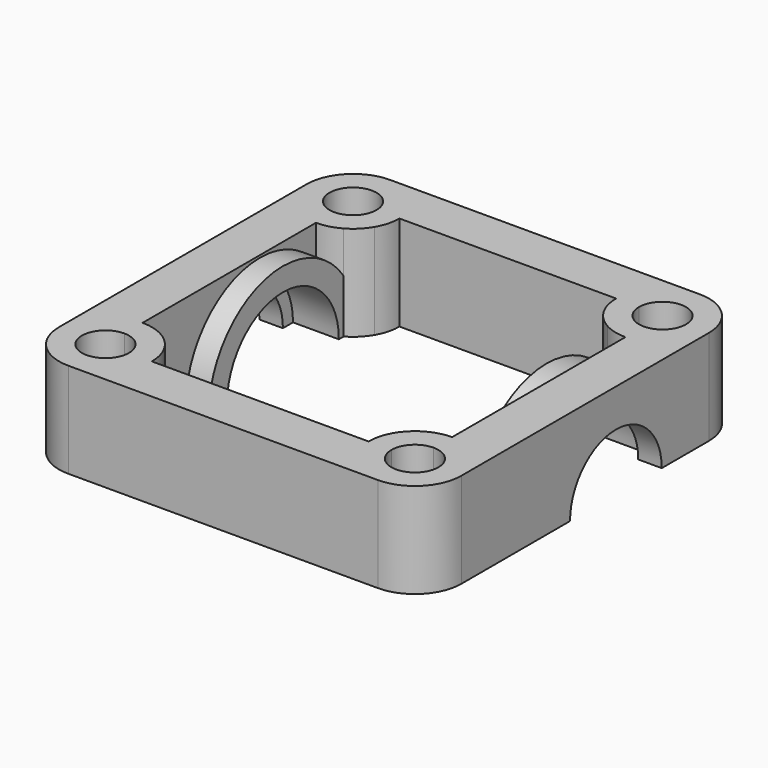
from build123d import *

# Parameters (mm, degrees)
F0_W     = 2
F0_H     = 6.1
F0_H_2   = 2
F0_W_2   = 2.05
F0_H_3   = 5
F1_DEPTH = 8.3
F2_ANGLE = 180
F3_ANGLE = 180


with BuildPart() as f1:
    # F0 (on Top) → F1 (new body)
    with BuildSketch(Plane.XY):
        with BuildLine():
            ThreePointArc((-13.5, 9.45), (-14.5342970466, 9.5842970466), (-15.5, 9.9782816694))
            Line((-15.5, 9.9782816694), (-15.5, 9.45))
            Line((-15.5, 9.45), (-13.5, 9.45))
        make_face()
        with BuildLine():
            ThreePointArc((-9.45, 13.5), (-10.6362175362, 16.3637824638), (-13.5, 17.55))
            ThreePointArc((-13.5, 17.55), (-16.3637824638, 16.3637824638), (-17.55, 13.5))
            ThreePointArc((-17.55, 13.5), (-17.0001785669, 11.4625383439), (-15.5, 9.9782816694))
            Line((-15.5, 9.9782816694), (-15.5, 11.45))
            Line((-15.5, 11.45), (-13.5, 11.45))
            ThreePointArc((-13.5, 11.45), (-14.9495689014, 14.9495689014), (-11.45, 13.5))
            Line((-11.45, 13.5), (-9.45, 13.5))
        make_face()
        with BuildLine():
            Line((-15.5, 11.45), (-15.5, 9.9782816694))
            ThreePointArc((-15.5, 9.9782816694), (-14.5342970466, 9.5842970466), (-13.5, 9.45))
            Line((-13.5, 9.45), (-13.5, 11.45))
            Line((-13.5, 11.45), (-15.5, 11.45))
        make_face()
        with BuildLine():
            ThreePointArc((-15.5, 9.9782816694), (-17.0001785669, 11.4625383439), (-17.55, 13.5))
            Line((-17.55, 13.5), (-17.55, 8.35))
            Line((-17.55, 8.35), (-15.5, 8.35))
            Line((-15.5, 8.35), (-15.5, 9.45))
            Line((-15.5, 9.45), (-15.5, 9.9782816694))
        make_face()
        with Locations((-14.5, 0.3)):
            Rectangle(F0_W, F0_H)
        with Locations((-14.5, -3.75)):
            Rectangle(F0_W, F0_H_2)
        with BuildLine():
            ThreePointArc((-13.5, -9.45), (-16.3637824638, -10.6362175362), (-17.55, -13.5))
            ThreePointArc((-17.55, -13.5), (-16.3637824638, -16.3637824638), (-13.5, -17.55))
            ThreePointArc((-13.5, -17.55), (-10.6362175362, -16.3637824638), (-9.45, -13.5))
            Line((-9.45, -13.5), (-11.45, -13.5))
            ThreePointArc((-11.45, -13.5), (-14.9495689014, -14.9495689014), (-13.5, -11.45))
            Line((-13.5, -11.45), (-13.5, -9.45))
        make_face()
        with BuildLine():
            Line((-13.5, -17.55), (13.5, -17.55))
            ThreePointArc((13.5, -17.55), (10.6362175362, -16.3637824638), (9.45, -13.5))
            Line((9.45, -13.5), (-9.45, -13.5))
            ThreePointArc((-9.45, -13.5), (-10.6362175362, -16.3637824638), (-13.5, -17.55))
        make_face()
        with BuildLine():
            ThreePointArc((-9.45, -13.5), (-10.6362175362, -10.6362175362), (-13.5, -9.45))
            Line((-13.5, -9.45), (-13.5, -11.45))
            ThreePointArc((-13.5, -11.45), (-12.0504310986, -12.0504310986), (-11.45, -13.5))
            Line((-11.45, -13.5), (-9.45, -13.5))
        make_face()
        with BuildLine():
            ThreePointArc((13.5, -17.55), (16.3637824638, -16.3637824638), (17.55, -13.5))
            ThreePointArc((17.55, -13.5), (16.3637824638, -10.6362175362), (13.5, -9.45))
            Line((13.5, -9.45), (13.5, -11.45))
            ThreePointArc((13.5, -11.45), (14.9495689014, -12.0504310986), (15.55, -13.5))
            ThreePointArc((15.55, -13.5), (13.5, -15.55), (11.45, -13.5))
            Line((11.45, -13.5), (9.45, -13.5))
            ThreePointArc((9.45, -13.5), (10.6362175362, -16.3637824638), (13.5, -17.55))
        make_face()
        with BuildLine():
            Line((13.5, -11.45), (13.5, -9.45))
            ThreePointArc((13.5, -9.45), (10.6362175362, -10.6362175362), (9.45, -13.5))
            Line((9.45, -13.5), (11.45, -13.5))
            ThreePointArc((11.45, -13.5), (12.0504310986, -12.0504310986), (13.5, -11.45))
        make_face()
        with BuildLine():
            Line((17.55, 8.35), (17.55, 13.5))
            ThreePointArc((17.55, 13.5), (17.0001785669, 11.4625383439), (15.5, 9.9782816694))
            Line((15.5, 9.9782816694), (15.5, 9.45))
            Line((15.5, 9.45), (15.5, 8.35))
            Line((15.5, 8.35), (17.55, 8.35))
        make_face()
        with Locations((14.5, -3.75)):
            Rectangle(F0_W, F0_H_2)
        with Locations((14.5, 0.3)):
            Rectangle(F0_W, F0_H)
        with BuildLine():
            Line((15.5, 9.45), (15.5, 9.9782816694))
            ThreePointArc((15.5, 9.9782816694), (14.5342970466, 9.5842970466), (13.5, 9.45))
            Line((13.5, 9.45), (15.5, 9.45))
        make_face()
        with BuildLine():
            ThreePointArc((13.5, 9.45), (14.5342970466, 9.5842970466), (15.5, 9.9782816694))
            Line((15.5, 9.9782816694), (15.5, 11.45))
            Line((15.5, 11.45), (13.5, 11.45))
            Line((13.5, 11.45), (13.5, 9.45))
        make_face()
        with BuildLine():
            ThreePointArc((11.5, 9.9782816694), (12.4657029534, 9.5842970466), (13.5, 9.45))
            Line((13.5, 9.45), (13.5, 11.45))
            Line((13.5, 11.45), (11.5, 11.45))
            Line((11.5, 11.45), (11.5, 9.9782816694))
        make_face()
        with BuildLine():
            Line((11.5, 11.45), (10.0071501607, 11.45))
            ThreePointArc((10.0071501607, 11.45), (10.6567028733, 10.6158776986), (11.5, 9.9782816694))
            Line((11.5, 9.9782816694), (11.5, 11.45))
        make_face()
        with BuildLine():
            Line((11.45, 13.5), (9.45, 13.5))
            ThreePointArc((9.45, 13.5), (9.5917688241, 12.4378187182), (10.0071501607, 11.45))
            Line((10.0071501607, 11.45), (11.5, 11.45))
            Line((11.5, 11.45), (13.5, 11.45))
            ThreePointArc((13.5, 11.45), (12.0504310986, 12.0504310986), (11.45, 13.5))
        make_face()
        with BuildLine():
            ThreePointArc((17.55, 13.5), (16.3637824638, 16.3637824638), (13.5, 17.55))
            ThreePointArc((13.5, 17.55), (10.6362175362, 16.3637824638), (9.45, 13.5))
            Line((9.45, 13.5), (11.45, 13.5))
            ThreePointArc((11.45, 13.5), (13.5, 15.55), (15.55, 13.5))
            ThreePointArc((15.55, 13.5), (14.9495689014, 12.0504310986), (13.5, 11.45))
            Line((13.5, 11.45), (15.5, 11.45))
            Line((15.5, 11.45), (15.5, 9.9782816694))
            ThreePointArc((15.5, 9.9782816694), (17.0001785669, 11.4625383439), (17.55, 13.5))
        make_face()
        with BuildLine():
            ThreePointArc((9.45, 13.5), (10.6362175362, 16.3637824638), (13.5, 17.55))
            Line((13.5, 17.55), (-13.5, 17.55))
            ThreePointArc((-13.5, 17.55), (-10.6362175362, 16.3637824638), (-9.45, 13.5))
            Line((-9.45, 13.5), (9.45, 13.5))
        make_face()
        with BuildLine():
            ThreePointArc((-10.0071501607, 11.45), (-9.5917688241, 12.4378187182), (-9.45, 13.5))
            Line((-9.45, 13.5), (-11.45, 13.5))
            ThreePointArc((-11.45, 13.5), (-12.0504310986, 12.0504310986), (-13.5, 11.45))
            Line((-13.5, 11.45), (-11.5, 11.45))
            Line((-11.5, 11.45), (-10.0071501607, 11.45))
        make_face()
        with BuildLine():
            Line((-11.5, 11.45), (-13.5, 11.45))
            Line((-13.5, 11.45), (-13.5, 9.45))
            ThreePointArc((-13.5, 9.45), (-12.4657029534, 9.5842970466), (-11.5, 9.9782816694))
            Line((-11.5, 9.9782816694), (-11.5, 11.45))
        make_face()
        with BuildLine():
            ThreePointArc((-11.5, 9.9782816694), (-10.6567028733, 10.6158776986), (-10.0071501607, 11.45))
            Line((-10.0071501607, 11.45), (-11.5, 11.45))
            Line((-11.5, 11.45), (-11.5, 9.9782816694))
        make_face()
        with BuildLine():
            Line((-15.5, 3.35), (-17.55, 3.35))
            Line((-17.55, 3.35), (-17.55, -13.5))
            ThreePointArc((-17.55, -13.5), (-16.3637824638, -10.6362175362), (-13.5, -9.45))
            Line((-13.5, -9.45), (-13.5, -4.75))
            Line((-13.5, -4.75), (-15.5, -4.75))
            Line((-15.5, -4.75), (-15.5, -2.75))
            Line((-15.5, -2.75), (-15.5, 3.35))
        make_face()
        with Locations((-16.525, 5.85)):
            Rectangle(F0_W_2, F0_H_3)
        Polygon((-15.5, 9.45), (-15.5, 8.35), (-15.5, 3.35), (-13.5, 3.35), (-13.5, 9.45), align=None)
        with Locations((16.525, 5.85)):
            Rectangle(F0_W_2, F0_H_3)
        Polygon((15.5, 3.35), (15.5, 8.35), (15.5, 9.45), (13.5, 9.45), (13.5, 3.35), align=None)
        with BuildLine():
            Line((17.55, -13.5), (17.55, 3.35))
            Line((17.55, 3.35), (15.5, 3.35))
            Line((15.5, 3.35), (15.5, -2.75))
            Line((15.5, -2.75), (15.5, -4.75))
            Line((15.5, -4.75), (13.5, -4.75))
            Line((13.5, -4.75), (13.5, -9.45))
            ThreePointArc((13.5, -9.45), (16.3637824638, -10.6362175362), (17.55, -13.5))
        make_face()
        with BuildLine():
            ThreePointArc((11.5, 9.9782816694), (12.4657029534, 9.5842970466), (13.5, 9.45))
            Line((13.5, 9.45), (13.5, 11.45))
            Line((13.5, 11.45), (11.5, 11.45))
            Line((11.5, 11.45), (11.5, 9.9782816694))
        make_face()
        with BuildLine():
            Line((-11.5, 11.45), (-13.5, 11.45))
            Line((-13.5, 11.45), (-13.5, 9.45))
            ThreePointArc((-13.5, 9.45), (-12.4657029534, 9.5842970466), (-11.5, 9.9782816694))
            Line((-11.5, 9.9782816694), (-11.5, 11.45))
        make_face()
        Polygon((-15.5, 9.45), (-15.5, 8.35), (-15.5, 3.35), (-13.5, 3.35), (-13.5, 9.45), align=None)
        Polygon((15.5, 3.35), (15.5, 8.35), (15.5, 9.45), (13.5, 9.45), (13.5, 3.35), align=None)
    extrude(amount=F1_DEPTH)

    # F0 (on Top) → F2 (revolve)
    with BuildSketch(Plane.XY):
        with Locations((-16.525, 5.85)):
            Rectangle(F0_W_2, F0_H_3)
        Polygon((-15.5, 9.45), (-15.5, 8.35), (-15.5, 3.35), (-13.5, 3.35), (-13.5, 9.45), align=None)
        with Locations((-12.5, 6.4)):
            Rectangle(F0_W, F0_H)
        with BuildLine():
            Line((-11.5, 11.45), (-13.5, 11.45))
            Line((-13.5, 11.45), (-13.5, 9.45))
            ThreePointArc((-13.5, 9.45), (-12.4657029534, 9.5842970466), (-11.5, 9.9782816694))
            Line((-11.5, 9.9782816694), (-11.5, 11.45))
        make_face()
        with BuildLine():
            Line((-15.5, 11.45), (-15.5, 9.9782816694))
            ThreePointArc((-15.5, 9.9782816694), (-14.5342970466, 9.5842970466), (-13.5, 9.45))
            Line((-13.5, 9.45), (-13.5, 11.45))
            Line((-13.5, 11.45), (-15.5, 11.45))
        make_face()
        with BuildLine():
            ThreePointArc((11.5, 9.9782816694), (12.4657029534, 9.5842970466), (13.5, 9.45))
            Line((13.5, 9.45), (13.5, 11.45))
            Line((13.5, 11.45), (11.5, 11.45))
            Line((11.5, 11.45), (11.5, 9.9782816694))
        make_face()
        with Locations((12.5, 6.4)):
            Rectangle(F0_W, F0_H)
        with BuildLine():
            ThreePointArc((13.5, 9.45), (14.5342970466, 9.5842970466), (15.5, 9.9782816694))
            Line((15.5, 9.9782816694), (15.5, 11.45))
            Line((15.5, 11.45), (13.5, 11.45))
            Line((13.5, 11.45), (13.5, 9.45))
        make_face()
        with BuildLine():
            Line((-11.5, 9.45), (-11.5, 9.9782816694))
            ThreePointArc((-11.5, 9.9782816694), (-12.4657029534, 9.5842970466), (-13.5, 9.45))
            Line((-13.5, 9.45), (-11.5, 9.45))
        make_face()
        with BuildLine():
            ThreePointArc((-13.5, 9.45), (-14.5342970466, 9.5842970466), (-15.5, 9.9782816694))
            Line((-15.5, 9.9782816694), (-15.5, 9.45))
            Line((-15.5, 9.45), (-13.5, 9.45))
        make_face()
        with BuildLine():
            Line((15.5, 9.45), (15.5, 9.9782816694))
            ThreePointArc((15.5, 9.9782816694), (14.5342970466, 9.5842970466), (13.5, 9.45))
            Line((13.5, 9.45), (15.5, 9.45))
        make_face()
        with BuildLine():
            Line((11.5, 9.45), (13.5, 9.45))
            ThreePointArc((13.5, 9.45), (12.4657029534, 9.5842970466), (11.5, 9.9782816694))
            Line((11.5, 9.9782816694), (11.5, 9.45))
        make_face()
        with Locations((12.5, 6.4)):
            Rectangle(F0_W, F0_H)
        with Locations((16.525, 5.85)):
            Rectangle(F0_W_2, F0_H_3)
        Polygon((15.5, 3.35), (15.5, 8.35), (15.5, 9.45), (13.5, 9.45), (13.5, 3.35), align=None)
        Polygon((15.5, 3.35), (15.5, 8.35), (15.5, 9.45), (13.5, 9.45), (13.5, 3.35), align=None)
        with Locations((-12.5, 6.4)):
            Rectangle(F0_W, F0_H)
    revolve(axis=Axis((0, 3.35, 0), (1, 0, 0)), revolution_arc=F2_ANGLE)

    # F0 (on Top) → F3 (revolve, cut)
    with BuildSketch(Plane.XY):
        Polygon((15.5, 3.35), (15.5, 8.35), (15.5, 9.45), (13.5, 9.45), (13.5, 3.35), align=None)
        with Locations((16.525, 5.85)):
            Rectangle(F0_W_2, F0_H_3)
        with Locations((12.5, 6.4)):
            Rectangle(F0_W, F0_H)
        with Locations((-12.5, 6.4)):
            Rectangle(F0_W, F0_H)
        Polygon((-15.5, 9.45), (-15.5, 8.35), (-15.5, 3.35), (-13.5, 3.35), (-13.5, 9.45), align=None)
        with Locations((-16.525, 5.85)):
            Rectangle(F0_W_2, F0_H_3)
        Polygon((-15.5, 9.45), (-15.5, 8.35), (-15.5, 3.35), (-13.5, 3.35), (-13.5, 9.45), align=None)
        Polygon((15.5, 3.35), (15.5, 8.35), (15.5, 9.45), (13.5, 9.45), (13.5, 3.35), align=None)
        with Locations((-12.5, 6.4)):
            Rectangle(F0_W, F0_H)
        with Locations((12.5, 6.4)):
            Rectangle(F0_W, F0_H)
    revolve(axis=Axis((0, 3.35, 0), (1, 0, 0)), revolution_arc=F3_ANGLE, mode=Mode.SUBTRACT)


solid = f1.part
